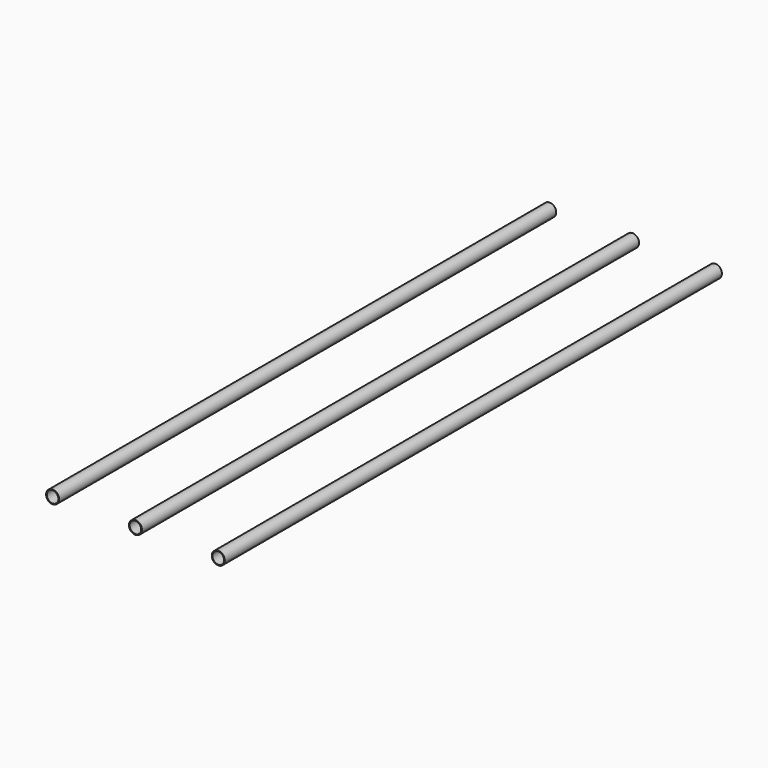
from build123d import *

# Parameters (mm, degrees)
F0_R     = 31.5
F0_R_2   = 28
F1_DEPTH = 3000


with BuildPart() as f1:
    # F0 (on Front) → F1 (new body)
    with BuildSketch(Plane.XZ):
        with Locations((-400, 0)):
            Circle(F0_R)
        with Locations((-400, 0)):
            Circle(F0_R_2, mode=Mode.SUBTRACT)
        Circle(F0_R)
        Circle(F0_R_2, mode=Mode.SUBTRACT)
        with Locations((400, 0)):
            Circle(F0_R)
        with Locations((400, 0)):
            Circle(F0_R_2, mode=Mode.SUBTRACT)
    extrude(amount=F1_DEPTH)


solid = f1.part
